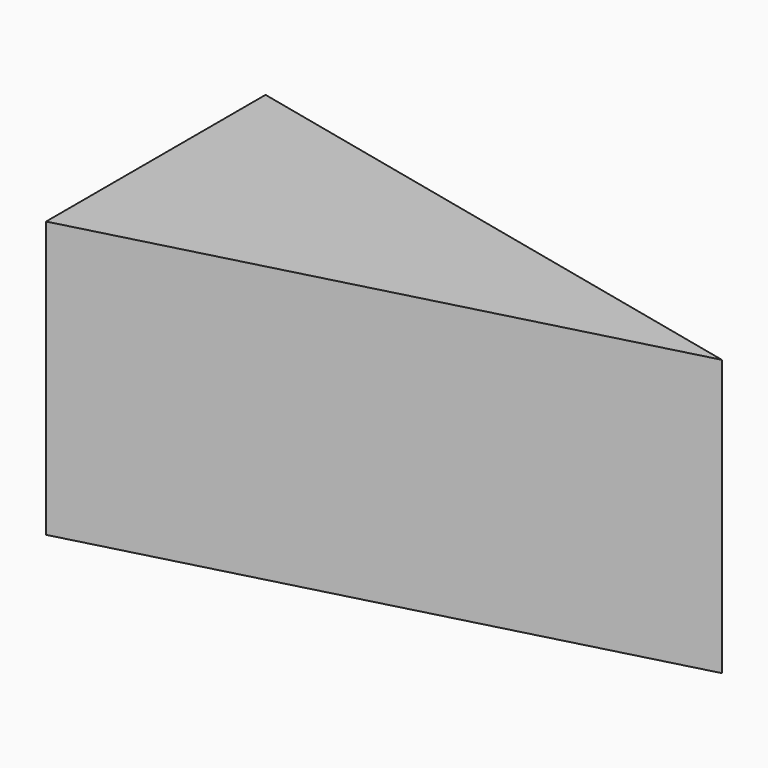
from build123d import *

# Parameters (mm, degrees)
F0_W     = 141.0973854363
F0_H     = 69.7157457471
F1_DEPTH = 69.342
F3_DEPTH = 115.062
F5_DEPTH = 121.158


with BuildPart() as f1:
    # F0 (on Front) → F1 (new body)
    with BuildSketch(Plane.XZ):
        with Locations((13.8084646314, -22.6355418563)):
            Rectangle(F0_W, F0_H)
    extrude(amount=F1_DEPTH)

    # F2 (on face) → F3 (cut)
    with BuildSketch(Plane.XY.offset(12.2223310173)):
        Polygon((84.3571573496, -32.1864075959), (-56.7402280867, -69.342), (84.3571573496, -69.342), align=None)
    extrude(amount=-F3_DEPTH, mode=Mode.SUBTRACT)

    # F4 (on face) → F5 (cut)
    with BuildSketch(Plane.XY.offset(12.2223310173)):
        Polygon((84.3571573496, 0), (-56.7402280867, 0), (84.3571573496, -32.1864075959), align=None)
    extrude(amount=-F5_DEPTH, mode=Mode.SUBTRACT)


solid = f1.part
